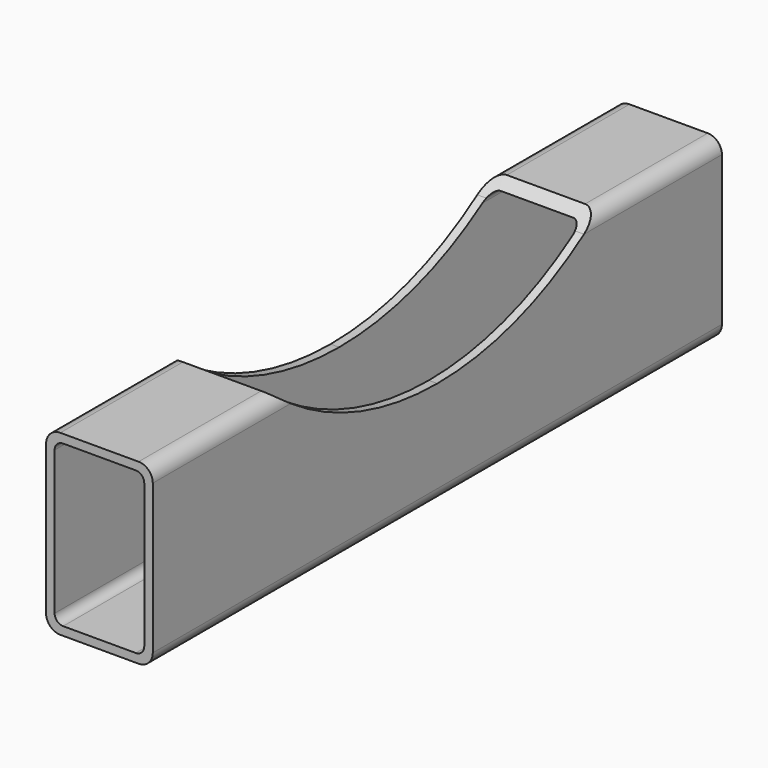
from build123d import *

# Parameters (mm, degrees)
F1_DEPTH = 1000
F2_R     = 11
F3_DEPTH = 25
F5_DEPTH = 345


with BuildPart() as f1:
    # F0 (on Front) → F1 (new body)
    with BuildSketch(Plane.XZ):
        with BuildLine():
            ThreePointArc((-500, -568.999999), (-494.142136, -583.142134), (-480, -588.999999))
            Line((-480, -588.999999), (-370, -588.999999))
            ThreePointArc((-370, -588.999999), (-355.857864, -583.142134), (-350, -568.999999))
            Line((-350, -568.999999), (-350, -358.999999))
            ThreePointArc((-350, -358.999999), (-355.857864, -344.857863), (-370, -338.999999))
            Line((-370, -338.999999), (-480, -338.999999))
            ThreePointArc((-480, -338.999999), (-494.142136, -344.857863), (-500, -358.999999))
            Line((-500, -358.999999), (-500, -568.999999))
        make_face()
        with BuildLine():
            ThreePointArc((-488, -362.999999), (-484.485281, -354.514717), (-476, -350.999999))
            Line((-476, -350.999999), (-374, -350.999999))
            ThreePointArc((-374, -350.999999), (-365.514719, -354.514717), (-362, -362.999999))
            Line((-362, -362.999999), (-362, -564.999999))
            ThreePointArc((-362, -564.999999), (-365.514719, -573.48528), (-374, -576.999999))
            Line((-374, -576.999999), (-476, -576.999999))
            ThreePointArc((-476, -576.999999), (-484.485281, -573.48528), (-488, -564.999999))
            Line((-488, -564.999999), (-488, -362.999999))
        make_face(mode=Mode.SUBTRACT)
    extrude(amount=F1_DEPTH)

    # F2 (on face) → F3 (cut)
    with BuildSketch(Plane(origin=(0, 0, -588.999999), x_dir=(1, 0, 0), z_dir=(0, 0, -1))):
        with BuildLine():
            ThreePointArc((-425, 889), (-417.221825, 892.221825), (-414, 900))
            ThreePointArc((-414, 900), (-432.778175, 907.778175), (-425, 889))
        make_face()
        with Locations((-425, 100)):
            Circle(F2_R)
    extrude(amount=-F3_DEPTH, mode=Mode.SUBTRACT)

    # F4 (on face) → F5 (cut)
    with BuildSketch(Plane.YZ.offset(-350)):
        with BuildLine():
            ThreePointArc((-500, -438.999999), (-365.092624, -418.539985), (-242.318025, -358.999999))
            Line((-242.318025, -358.999999), (-500, -358.999999))
            Line((-500, -358.999999), (-500, -438.999999))
        make_face()
        with BuildLine():
            Line((-500, -358.999999), (-242.318025, -358.999999))
            ThreePointArc((-242.318025, -358.999999), (-228.672176, -349.24815), (-215.395011, -338.999999))
            Line((-215.395011, -338.999999), (-500, -338.999999))
            Line((-500, -338.999999), (-500, -358.999999))
        make_face()
        with BuildLine():
            Line((-500, -438.999999), (-500, -358.999999))
            Line((-500, -358.999999), (-757.681975, -358.999999))
            ThreePointArc((-757.681975, -358.999999), (-634.907376, -418.539985), (-500, -438.999999))
        make_face()
        with BuildLine():
            Line((-757.681975, -358.999999), (-500, -358.999999))
            Line((-500, -358.999999), (-500, -338.999999))
            Line((-500, -338.999999), (-784.604989, -338.999999))
            ThreePointArc((-784.604989, -338.999999), (-771.327824, -349.24815), (-757.681975, -358.999999))
        make_face()
        with BuildLine():
            Line((-500, -338.999999), (-215.395011, -338.999999))
            ThreePointArc((-215.395011, -338.999999), (-89.80476, -180.887949), (-45, 16.000001))
            ThreePointArc((-45, 16.000001), (-696.88795, 426.195241), (-784.604989, -338.999999))
            Line((-784.604989, -338.999999), (-500, -338.999999))
        make_face()
    extrude(amount=-F5_DEPTH, mode=Mode.SUBTRACT)


solid = f1.part
